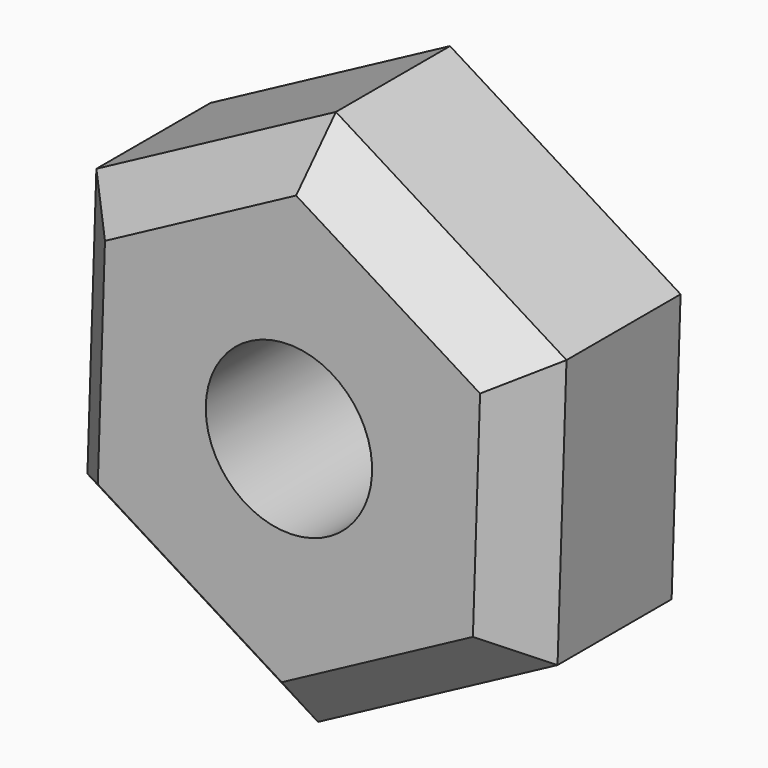
from build123d import *

# Parameters (mm, degrees)
F1_DEPTH = 25.4
F2_SIZE  = 5.08
F3_SIZE  = 5.08
F5_D     = 17.78


with BuildPart() as f1:
    # F0 (on Front) → F1 (new body)
    with BuildSketch(Plane.XZ):
        Polygon((25.60047, 13.673016), (0.959056, 29.007166), (-24.641414, 15.33415), (-25.60047, -13.673016), (-0.959056, -29.007166), (24.641414, -15.33415), align=None)
    extrude(amount=F1_DEPTH)

    # F2
    f2_edges = [f1.edges().sort_by_distance(p)[0] for p in [
        (13.279763, -25.4, 21.340091),
        (25.120942, -25.4, -0.830567),
        (11.841179, -25.4, -22.170658),
        (-13.279763, -25.4, -21.340091),
        (-25.120942, -25.4, 0.830567),
        (-11.841179, -25.4, 22.170658),
    ]]
    chamfer(f2_edges, length=F2_SIZE)

    # F3
    f3_edges = [f1.edges().sort_by_distance(p)[0] for p in [
        (25.120942, 0, -0.830567),
        (13.279763, 0, 21.340091),
        (11.841179, 0, -22.170658),
        (-11.841179, 0, 22.170658),
        (-25.120942, 0, 0.830567),
        (-13.279763, 0, -21.340091),
    ]]
    chamfer(f3_edges, length=F3_SIZE)

    # F5 (through all)
    with Locations(Plane.XZ.offset(25.4)):
        with Locations((0, 0)):
            Hole(F5_D / 2)


solid = f1.part
